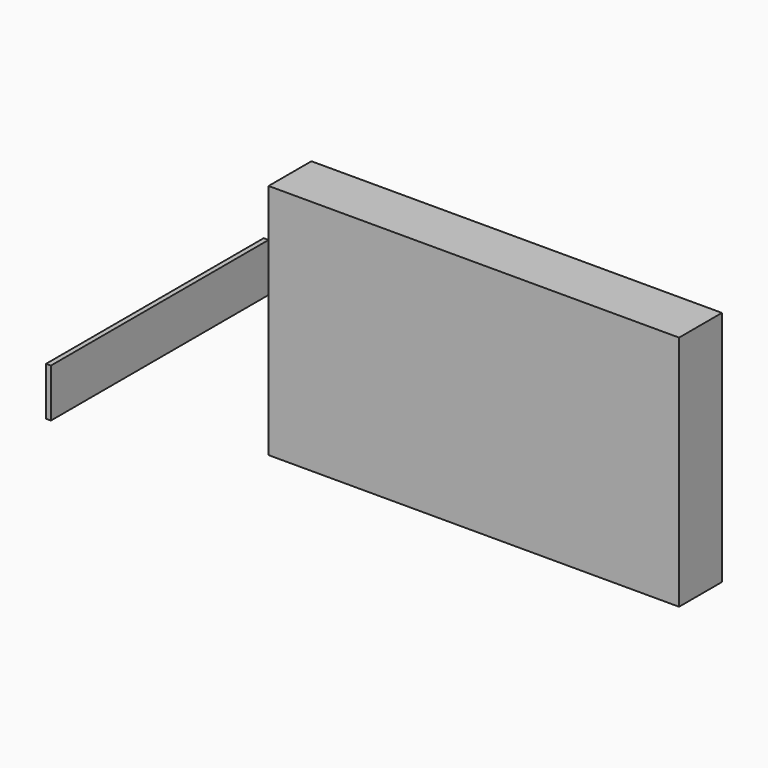
from build123d import *

# Parameters (mm, degrees)
F0_W     = 76.6580477357
F0_H     = 44.2494452
F1_DEPTH = 10
F2_W     = 0.9057503194
F2_H     = 9.0445876122
F3_DEPTH = 25.4
F4_DEPTH = 25.4


with BuildPart() as f1:
    # F0 (on Front) → F1 (new body)
    with BuildSketch(Plane.XZ):
        Rectangle(F0_W, F0_H)
    extrude(amount=F1_DEPTH)


with BuildPart() as f3:
    # F2 (on face) → F3 (new body)
    with BuildSketch(Plane.XZ.offset(10)):
        with Locations((-38.7818990275, 8.7276399136)):
            Rectangle(F2_W, F2_H)
    extrude(amount=F3_DEPTH)

    # F4 (add): a face of the model
    f4_faces = [f3.faces().sort_by_distance(p)[0] for p in [
        (-38.7818990275, -35.4, 8.7276399136),
    ]]
    extrude(f4_faces, amount=F4_DEPTH)


solid = Compound([f1.part, f3.part])
